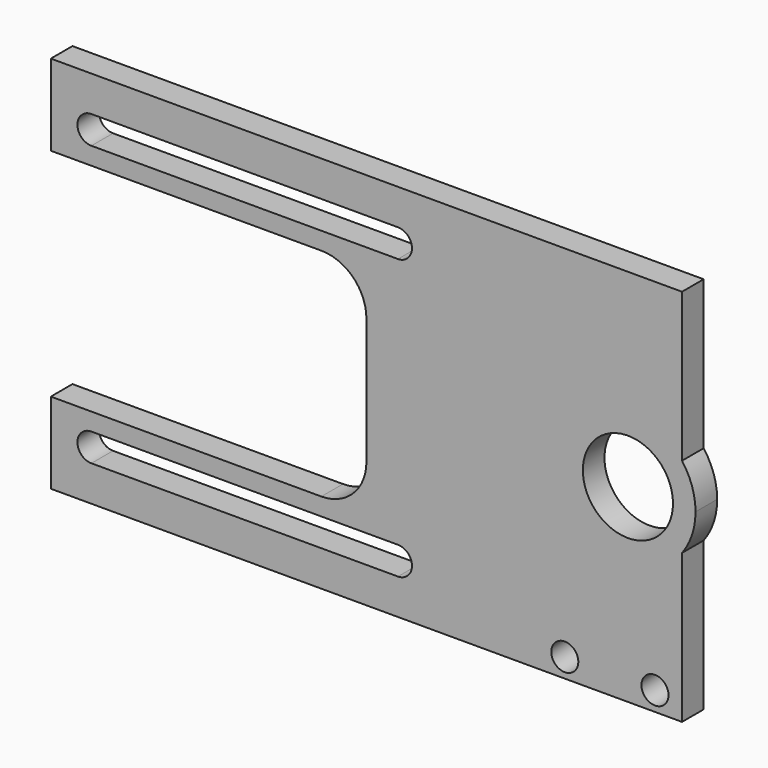
from build123d import *

# Parameters (mm, degrees)
F0_R     = 5
F1_DEPTH = 3
F2_D     = 3


with BuildPart() as f1:
    # F0 (on Front) → F1 (new body)
    with BuildSketch(Plane.XZ):
        with BuildLine():
            Line((29.2013126835, 21), (-40.7986873165, 21))
            Line((-40.7986873165, 21), (-40.7986873165, 12))
            Line((-40.7986873165, 12), (-10.7986873165, 12))
            ThreePointArc((-10.7986873165, 12), (-7.2631534106, 10.5355339059), (-5.7986873165, 7))
            Line((-5.7986873165, 7), (-5.7986873165, -7))
            ThreePointArc((-5.7986873165, -7), (-7.2631534106, -10.5355339059), (-10.7986873165, -12))
            Line((-10.7986873165, -12), (-40.7986873165, -12))
            Line((-40.7986873165, -12), (-40.7986873165, -21))
            Line((-40.7986873165, -21), (29.2013126835, -21))
            Line((29.2013126835, -21), (29.2013126835, -4.5))
            ThreePointArc((29.2013126835, -4.5), (15.7013126835, 0), (29.2013126835, 4.5))
            Line((29.2013126835, 4.5), (29.2013126835, 21))
        make_face()
        with BuildLine():
            Line((-2.2986873165, -17.05), (-36.2986873165, -17.05))
            ThreePointArc((-36.2986873165, -17.05), (-37.8486873165, -15.5), (-36.2986873165, -13.95))
            Line((-36.2986873165, -13.95), (-2.2986873165, -13.95))
            ThreePointArc((-2.2986873165, -13.95), (-1.2026718057, -14.4039844892), (-0.7486873165, -15.5))
            ThreePointArc((-0.7486873165, -15.5), (-1.2026718057, -16.5960155108), (-2.2986873165, -17.05))
        make_face(mode=Mode.SUBTRACT)
        with BuildLine():
            ThreePointArc((-36.2986873165, 13.95), (-37.8486873165, 15.5), (-36.2986873165, 17.05))
            Line((-36.2986873165, 17.05), (-2.2986873165, 17.05))
            ThreePointArc((-2.2986873165, 17.05), (-1.2026718057, 16.5960155108), (-0.7486873165, 15.5))
            ThreePointArc((-0.7486873165, 15.5), (-1.2026718057, 14.4039844892), (-2.2986873165, 13.95))
            Line((-2.2986873165, 13.95), (-36.2986873165, 13.95))
        make_face(mode=Mode.SUBTRACT)
        with BuildLine():
            ThreePointArc((30.7013126835, 0), (30.3164374189, 2.3717082451), (29.2013126835, 4.5))
            Line((29.2013126835, 4.5), (29.2013126835, -4.5))
            ThreePointArc((29.2013126835, -4.5), (30.3164374189, -2.3717082451), (30.7013126835, 0))
        make_face()
        with BuildLine():
            Line((29.2013126835, -4.5), (29.2013126835, 4.5))
            ThreePointArc((29.2013126835, 4.5), (15.7013126835, 0), (29.2013126835, -4.5))
        make_face()
        with Locations((23.2013126835, 0)):
            Circle(F0_R, mode=Mode.SUBTRACT)
    extrude(amount=F1_DEPTH)

    # F2 (through all)
    with Locations(Plane(origin=(0, 0, 0), x_dir=(1, 0, 0), z_dir=(0, 1, 0))):
        with Locations((16.2013126835, 18.875), (26.2013126835, 18.875)):
            Hole(F2_D / 2)


solid = f1.part
